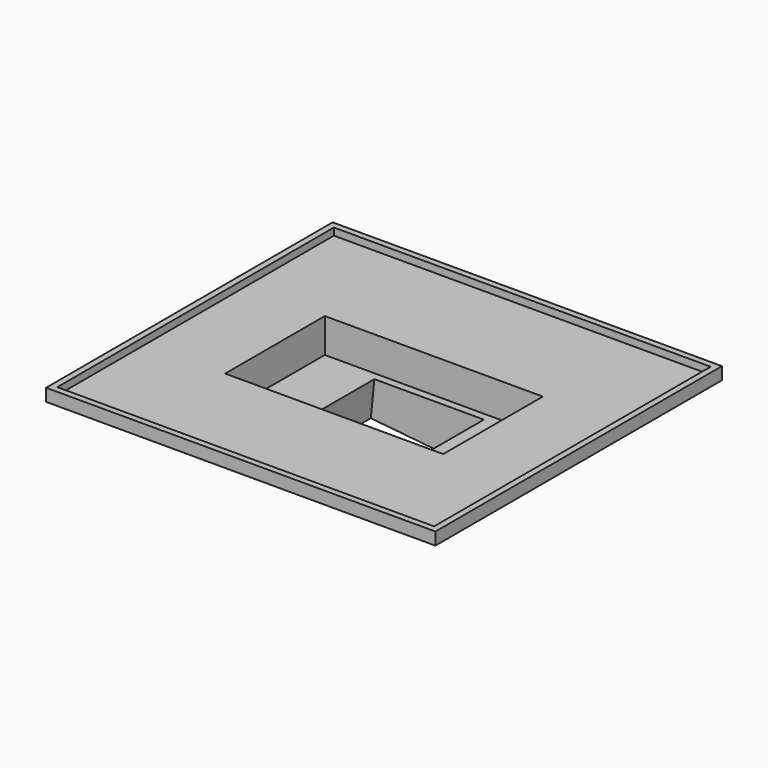
from build123d import *

# Parameters (mm, degrees)
SKETCH_W        = 125
SKETCH_H        = 115
PAD_DEPTH       = 4
SKETCH001_W     = 121
SKETCH001_H     = 111
POCKET_DEPTH    = 2.3
SKETCH002_W     = 74
SKETCH002_H     = 44
PAD001_DEPTH    = 13
CHAMFER_SIZE    = 2
SKETCH003_W     = 70
SKETCH003_H     = 40
POCKET001_DEPTH = 11
SKETCH004_W     = 49.7
SKETCH004_H     = 38
PAD002_DEPTH    = 5
POCKET002_DEPTH = 76.501
SKETCH006_W     = 49.9508758682
SKETCH006_H     = 38
SKETCH006_R     = 2
SKETCH006_W_2   = 35
SKETCH006_H_2   = 35
PAD003_DEPTH    = 7
SKETCH007_W     = 35
SKETCH007_H     = 35
POCKET003_DEPTH = 25.6742234963


with BuildPart() as part:
    # Sketch → Pad (new body)
    with BuildSketch(Plane.XY):
        with Locations((62.5, 57.5)):
            Rectangle(SKETCH_W, SKETCH_H)
    extrude(amount=PAD_DEPTH)

    # Sketch001 (on Face6 of Pad) → Pocket (cut)
    with BuildSketch(Plane.XY.offset(4)):
        with Locations((62.5, 57.5)):
            Rectangle(SKETCH001_W, SKETCH001_H)
    extrude(amount=-POCKET_DEPTH, mode=Mode.SUBTRACT)

    # Sketch002 (on Face4 of Pocket) → Pad001 (join)
    with BuildSketch(Plane(origin=(0, 0, 0), x_dir=(1, 0, 0), z_dir=(0, 0, -1))):
        with Locations((62.5, -57.5)):
            Rectangle(SKETCH002_W, SKETCH002_H)
    extrude(amount=PAD001_DEPTH)

    # Chamfer
    chamfer_edges = [part.edges().sort_by_distance(p)[0] for p in [
        (62.5, 35.5, 0),
        (99.5, 57.5, 0),
        (62.5, 79.5, 0),
        (25.5, 57.5, 0),
    ]]
    chamfer(chamfer_edges, length=CHAMFER_SIZE)

    # Sketch003 (on Face20 of Chamfer) → Pocket001 (cut)
    with BuildSketch(Plane.XY.offset(1.7)):
        with Locations((62.5, 57.5)):
            Rectangle(SKETCH003_W, SKETCH003_H)
    extrude(amount=-POCKET001_DEPTH, mode=Mode.SUBTRACT)

    # Sketch004 (on Face15 of Pocket001) → Pad002 (join)
    with BuildSketch(Plane(origin=(0, 0, -13), x_dir=(1, 0, 0), z_dir=(0, 0, -1))):
        with Locations((62.35, -57.5)):
            Rectangle(SKETCH004_W, SKETCH004_H)
    extrude(amount=PAD002_DEPTH)

    # Sketch005 (on Face22 of Pad002) → Pocket002 (cut, through all)
    with BuildSketch(Plane(origin=(0, 76.5, 0), x_dir=(-1, 0, 0), z_dir=(0, 1, 0))):
        Polygon((-37.5, -13), (-87.2, -18), (-37.5, -18), align=None)
    extrude(amount=-POCKET002_DEPTH, mode=Mode.SUBTRACT)

    # Sketch006 (on Face23 of Pocket002) → Pad003 (join)
    with BuildSketch(Plane(origin=(-0.9190049257, 0, -9.1349089612), x_dir=(0.9949775482, 0, -0.1000983449), z_dir=(-0.1000983449, 0, -0.9949775482))):
        with Locations((63.5883744738, -57.5)):
            Rectangle(SKETCH006_W, SKETCH006_H)
        with Locations((42.3629365397, -47.5)):
            Circle(SKETCH006_R, mode=Mode.SUBTRACT)
        with Locations((42.3629365397, -67.5)):
            Circle(SKETCH006_R, mode=Mode.SUBTRACT)
        with Locations((84.8629365397, -47.5)):
            Circle(SKETCH006_R, mode=Mode.SUBTRACT)
        with Locations((84.8629365397, -67.5)):
            Circle(SKETCH006_R, mode=Mode.SUBTRACT)
        with Locations((63.6129365397, -57.5)):
            Rectangle(SKETCH006_W_2, SKETCH006_H_2, mode=Mode.SUBTRACT)
    extrude(amount=PAD003_DEPTH)

    # Sketch007 (on Face38 of Pad003) → Pocket003 (cut, through all)
    with BuildSketch(Plane(origin=(-0.9190049257, 0, -9.1349089612), x_dir=(0.9949775482, 0, -0.1000983449), z_dir=(-0.1000983449, 0, -0.9949775482))):
        with Locations((63.6129365397, -57.5)):
            Rectangle(SKETCH007_W, SKETCH007_H)
    extrude(amount=-POCKET003_DEPTH, mode=Mode.SUBTRACT)


solid = part.part
